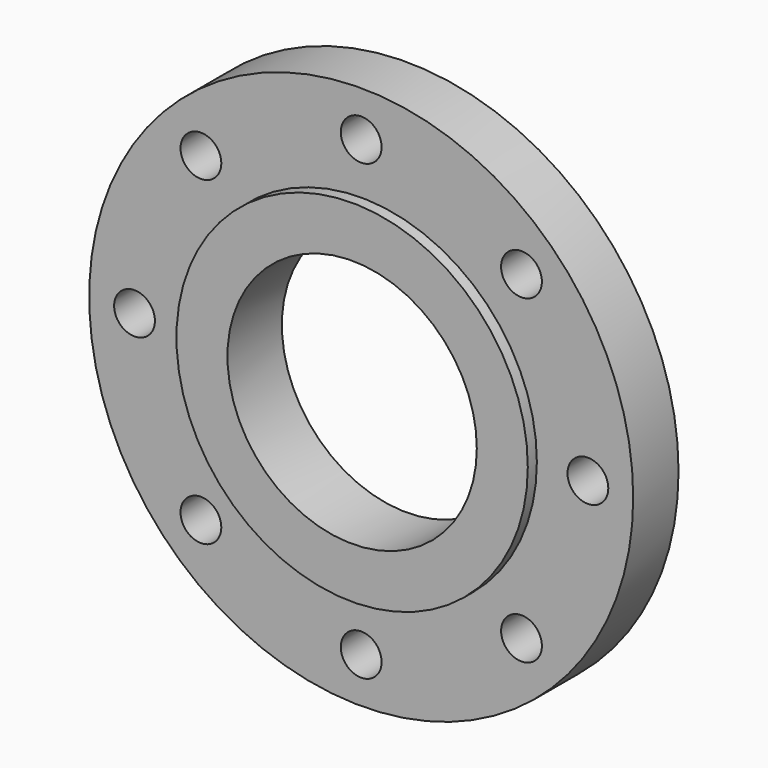
from build123d import *

# Parameters (mm, degrees)
F0_R     = 120
F0_R_2   = 55
F1_DEPTH = 25
F3_R     = 9
F4_DEPTH = 25
F5_R     = 77.5
F5_R_2   = 55
F6_DEPTH = 5


with BuildPart() as f1:
    # F0 (on Front) → F1 (new body)
    with BuildSketch(Plane.XZ):
        Circle(F0_R)
        Circle(F0_R_2, mode=Mode.SUBTRACT)
    extrude(amount=F1_DEPTH)

    # F3 (on face) → F4 (cut)
    with BuildSketch(Plane.XZ.offset(25)):
        with Locations((0, 100)):
            Circle(F3_R)
        with Locations((-70.710678, 70.710678)):
            Circle(F3_R)
        with Locations((-100, 0)):
            Circle(F3_R)
        with Locations((-70.710678, -70.710678)):
            Circle(F3_R)
        with Locations((0, -100)):
            Circle(F3_R)
        with Locations((70.710678, -70.710678)):
            Circle(F3_R)
        with Locations((100, 0)):
            Circle(F3_R)
        with Locations((70.710678, 70.710678)):
            Circle(F3_R)
    extrude(amount=-F4_DEPTH, mode=Mode.SUBTRACT)

    # F5 (on face) → F6 (join)
    with BuildSketch(Plane.XZ.offset(25)):
        Circle(F5_R)
        Circle(F5_R_2, mode=Mode.SUBTRACT)
    extrude(amount=F6_DEPTH)


solid = f1.part
